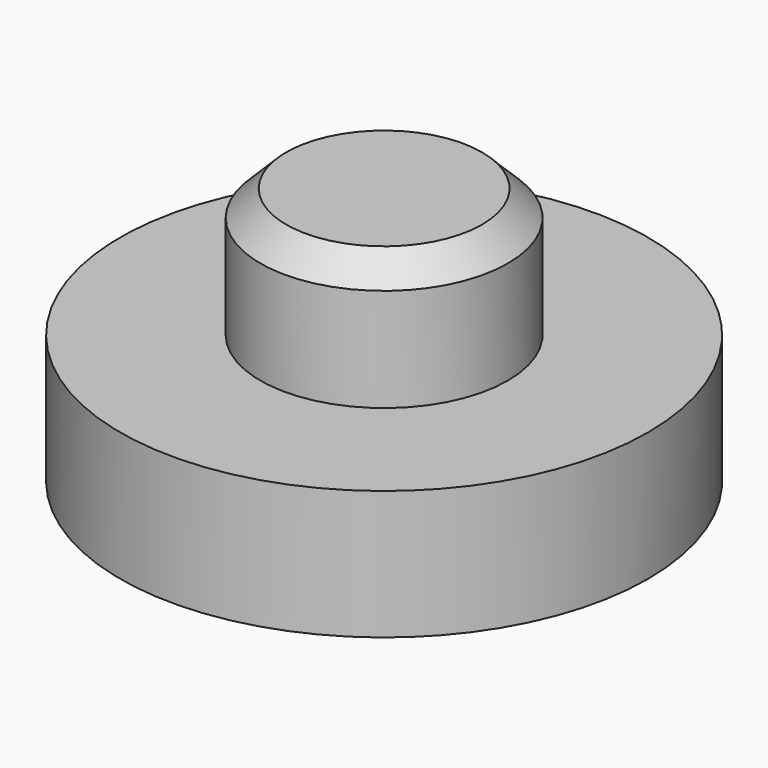
from build123d import *

# Parameters (mm, degrees)
F0_R     = 25.996027
F1_DEPTH = 12.7
F2_R     = 12.186121
F3_DEPTH = 12.7
F4_SIZE  = 2.54


with BuildPart() as f1:
    # F0 (on Top) → F1 (new body)
    with BuildSketch(Plane.XY):
        Circle(F0_R)
    extrude(amount=-F1_DEPTH)

    # F2 (on face) → F3 (join)
    with BuildSketch(Plane.XY):
        Circle(F2_R)
    extrude(amount=F3_DEPTH)

    # F4
    f4_edges = [f1.edges().sort_by_distance(p)[0] for p in [
        (-12.186121, 0, 12.7),
    ]]
    chamfer(f4_edges, length=F4_SIZE)


solid = f1.part
